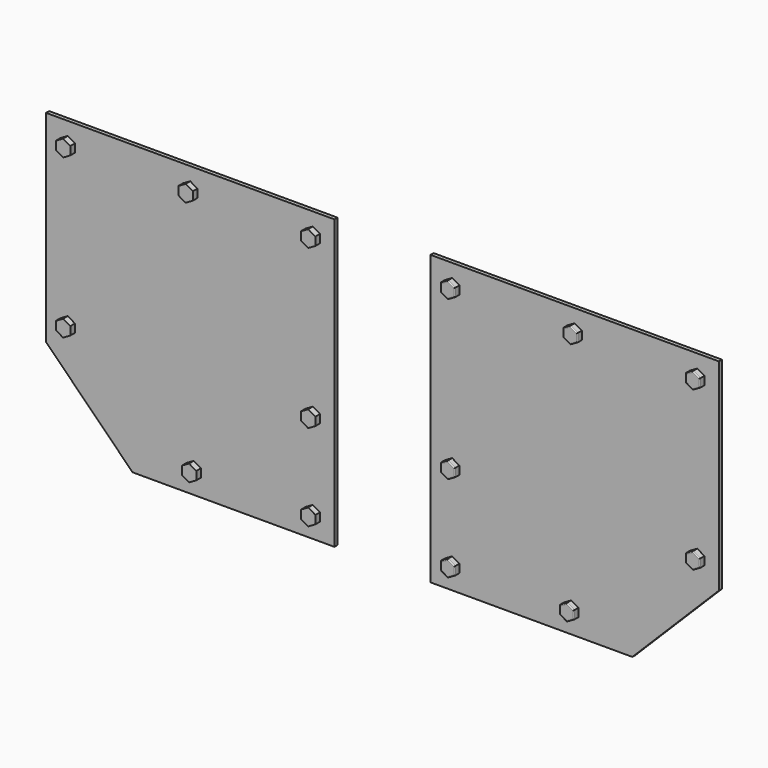
from build123d import *

# Parameters (mm, degrees)
F1_DEPTH = 4
F3_DEPTH = 6
F4_R     = 1


with BuildPart() as f1:
    # F0 (on Front) → F1 (new body)
    with BuildSketch(Plane.XZ):
        Polygon((50, 300), (50, 0), (260, 0), (350, 90), (350, 300), align=None)
        Polygon((-350, 300), (-350, 90), (-260, 0), (-50, 0), (-50, 300), align=None)
    extrude(amount=F1_DEPTH)

    # F2 (on face) → F3 (join)
    with BuildSketch(Plane.XZ.offset(4)):
        Polygon((72.5, 268.839746), (80, 273.169873), (80, 281.830127), (72.5, 286.160254), (65, 281.830127), (65, 273.169873), align=None)
        Polygon((200, 268.839746), (207.5, 273.169873), (207.5, 281.830127), (200, 286.160254), (192.5, 281.830127), (192.5, 273.169873), align=None)
        Polygon((327.5, 268.839746), (335, 273.169873), (335, 281.830127), (327.5, 286.160254), (320, 281.830127), (320, 273.169873), align=None)
        Polygon((327.5, 103.839746), (335, 108.169873), (335, 116.830127), (327.5, 121.160254), (320, 116.830127), (320, 108.169873), align=None)
        Polygon((72.5, 103.839746), (80, 108.169873), (80, 116.830127), (72.5, 121.160254), (65, 116.830127), (65, 108.169873), align=None)
        Polygon((72.5, 13.839746), (80, 18.169873), (80, 26.830127), (72.5, 31.160254), (65, 26.830127), (65, 18.169873), align=None)
        Polygon((196.420535, 13.839746), (203.920535, 18.169873), (203.920535, 26.830127), (196.420535, 31.160254), (188.920535, 26.830127), (188.920535, 18.169873), align=None)
        Polygon((-327.5, 103.839746), (-320, 108.169873), (-320, 116.830127), (-327.5, 121.160254), (-335, 116.830127), (-335, 108.169873), align=None)
        Polygon((-80, 108.169873), (-72.5, 103.839746), (-65, 108.169873), (-65, 116.830127), (-72.5, 121.160254), (-80, 116.830127), align=None)
        Polygon((-203.920535, 26.830127), (-203.920535, 18.169873), (-196.420535, 13.839746), (-188.920535, 18.169873), (-188.920535, 26.830127), (-196.420535, 31.160254), align=None)
        Polygon((-200, 286.160254), (-207.5, 281.830127), (-207.5, 273.169873), (-200, 268.839746), (-192.5, 273.169873), (-192.5, 281.830127), align=None)
        Polygon((-72.5, 268.839746), (-65, 273.169873), (-65, 281.830127), (-72.5, 286.160254), (-80, 281.830127), (-80, 273.169873), align=None)
        Polygon((-327.5, 286.160254), (-335, 281.830127), (-335, 273.169873), (-327.5, 268.839746), (-320, 273.169873), (-320, 281.830127), align=None)
        Polygon((-65, 18.169873), (-65, 26.830127), (-72.5, 31.160254), (-80, 26.830127), (-80, 18.169873), (-72.5, 13.839746), align=None)
    extrude(amount=F3_DEPTH)

    # F4
    f4_edges = [f1.edges().sort_by_distance(p)[0] for p in [
        (76.25, -10, 271.004809),
        (80, -10, 277.5),
        (76.25, -10, 283.995191),
        (68.75, -10, 283.995191),
        (65, -10, 277.5),
        (68.75, -10, 271.004809),
        (203.75, -10, 271.004809),
        (207.5, -10, 277.5),
        (203.75, -10, 283.995191),
        (196.25, -10, 283.995191),
        (192.5, -10, 277.5),
        (196.25, -10, 271.004809),
        (331.25, -10, 271.004809),
        (335, -10, 277.5),
        (331.25, -10, 283.995191),
        (323.75, -10, 283.995191),
        (320, -10, 277.5),
        (323.75, -10, 271.004809),
        (76.25, -10, 106.004809),
        (80, -10, 112.5),
        (76.25, -10, 118.995191),
        (68.75, -10, 118.995191),
        (65, -10, 112.5),
        (68.75, -10, 106.004809),
        (323.75, -10, 106.004809),
        (331.25, -10, 106.004809),
        (335, -10, 112.5),
        (331.25, -10, 118.995191),
        (323.75, -10, 118.995191),
        (320, -10, 112.5),
        (200.170535, -10, 16.004809),
        (203.920535, -10, 22.5),
        (200.170535, -10, 28.995191),
        (192.670535, -10, 28.995191),
        (188.920535, -10, 22.5),
        (192.670535, -10, 16.004809),
        (76.25, -10, 16.004809),
        (80, -10, 22.5),
        (76.25, -10, 28.995191),
        (68.75, -10, 28.995191),
        (65, -10, 22.5),
        (68.75, -10, 16.004809),
    ]]
    fillet(f4_edges, radius=F4_R)


solid = f1.part
